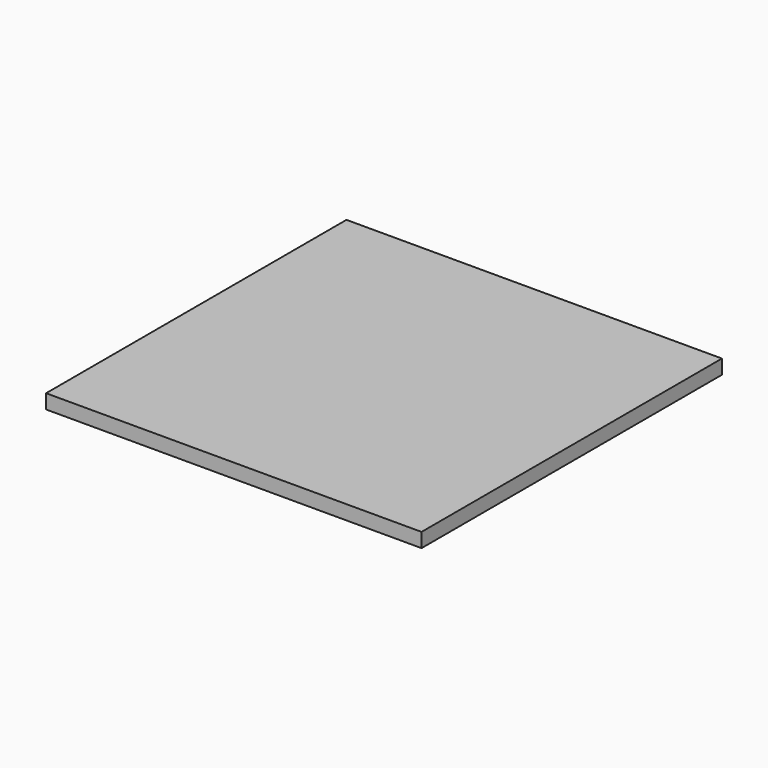
from build123d import *

# Parameters (mm, degrees)
F0_W     = 30.6324
F0_H     = 30.6324
F0_W_2   = 24.2824
F0_H_2   = 24.2824
F1_DEPTH = 1.1684
F2_DEPTH = 1.5748


with BuildPart() as f1:
    # F0 (on Top) → F1 (new body)
    with BuildSketch(Plane.XY):
        Rectangle(F0_W, F0_H)
        Rectangle(F0_W_2, F0_H_2, mode=Mode.SUBTRACT)
        Rectangle(F0_W_2, F0_H_2)
    extrude(amount=F1_DEPTH)

    # F0 (on Top) → F2 (join)
    with BuildSketch(Plane.XY):
        Rectangle(F0_W_2, F0_H_2)
    extrude(amount=-F2_DEPTH)


solid = f1.part
